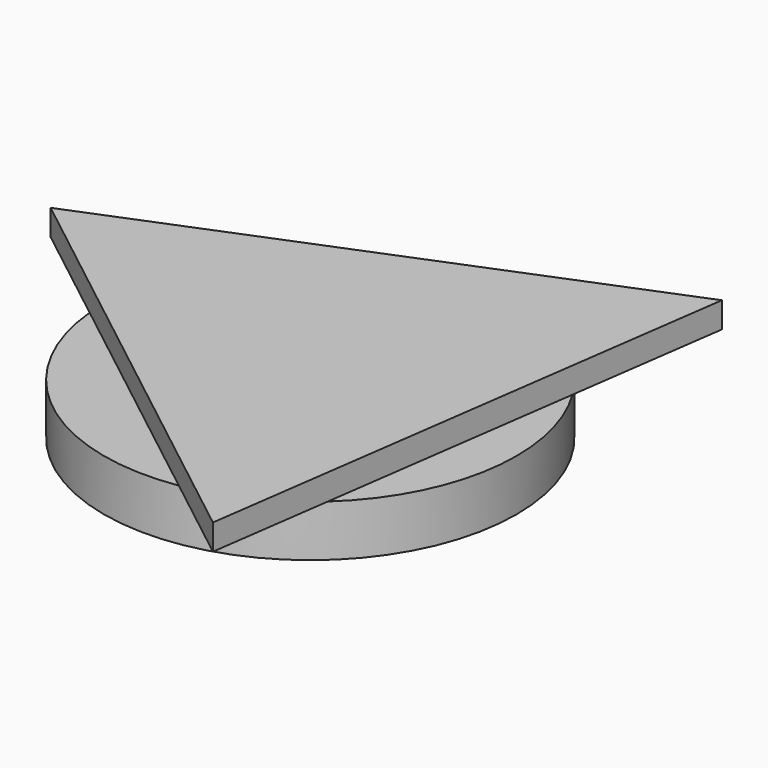
from build123d import *

# Parameters (mm, degrees)
F1_DEPTH = 4.318
F2_R     = 34.642989
F3_DEPTH = 8.636


with BuildPart() as f1:
    # F0 (on Top) → F1 (new body)
    with BuildSketch(Plane.XY):
        Polygon((-19.63134, -8.079292), (-6.936866, 82.897807), (-92.072582, 48.402995), align=None)
    extrude(amount=F1_DEPTH)

    # F2 (on face) → F3 (join)
    with BuildSketch(Plane(origin=(0, 0, 0), x_dir=(1, 0, 0), z_dir=(0, 0, -1))):
        with Locations((-40.157691, -38.012911)):
            Circle(F2_R)
    extrude(amount=F3_DEPTH)


solid = f1.part
